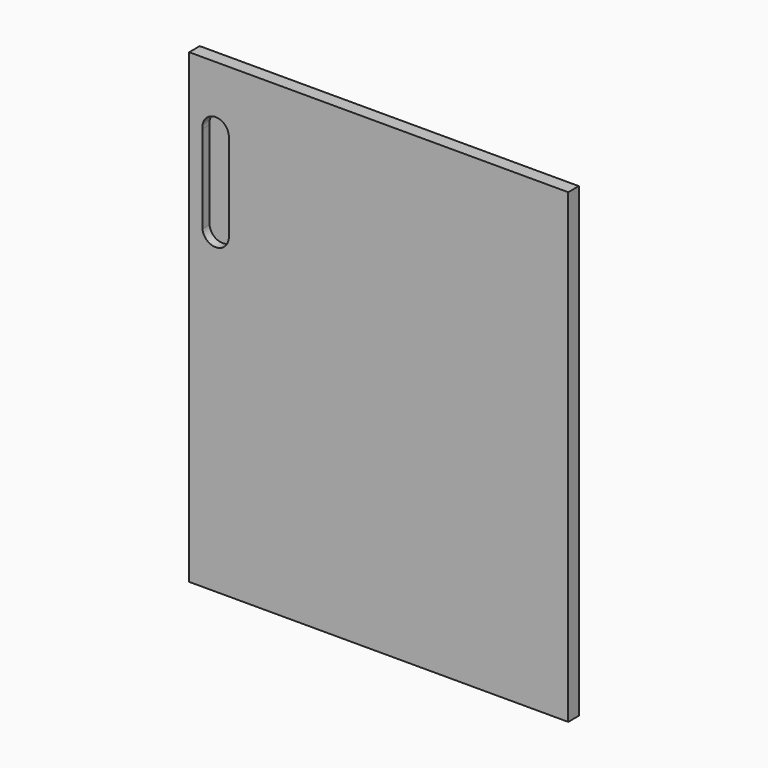
from build123d import *

# Parameters (mm, degrees)
F0_W     = 430
F0_H     = 529
F1_DEPTH = 15
F3_DEPTH = 10


with BuildPart() as f1:
    # F0 (on Front) → F1 (new body)
    with BuildSketch(Plane.XZ):
        with Locations((215, -264.5)):
            Rectangle(F0_W, F0_H)
    extrude(amount=F1_DEPTH)

    # F2 (on face) → F3 (cut)
    with BuildSketch(Plane.XZ.offset(15)):
        with BuildLine():
            Line((44.9995288556, -70.118886959), (44.9995277334, -69.8809715339))
            ThreePointArc((44.9995277334, -69.8809715339), (29.1091640555, -55.0264763225), (15.0921677358, -71.6602822603))
            ThreePointArc((15.0921677358, -71.6602822603), (30.7720601887, -84.9801175918), (44.9995288556, -70.118886959))
        make_face()
        with BuildLine():
            Line((45.0000000002, -170), (44.9995288556, -70.118886959))
            ThreePointArc((44.9995288556, -70.118886959), (30.7720601887, -84.9801175918), (15.0921677358, -71.6602822603))
            Line((15.0921677358, -71.6602822603), (15.0921677358, -168.3397177397))
            ThreePointArc((15.0921677358, -168.3397177397), (30.8314192798, -155.0230596589), (45, -170))
        make_face()
        with BuildLine():
            ThreePointArc((15.0921677358, -171.6602822603), (30.8314192798, -184.9769403411), (45, -170))
            ThreePointArc((45, -170), (30.8314192798, -155.0230596589), (15.0921677358, -168.3397177397))
            Line((15.0921677358, -168.3397177397), (15.0921677358, -171.6602822603))
        make_face()
    extrude(amount=-F3_DEPTH, mode=Mode.SUBTRACT)


solid = f1.part
